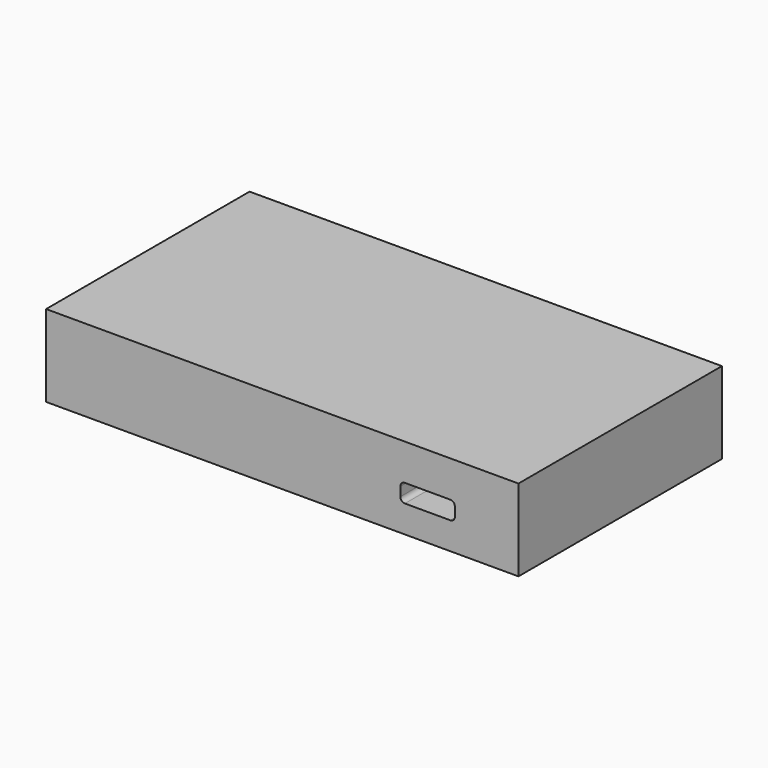
from build123d import *

# Parameters (mm, degrees)
BOX003_W     = 6
BOX003_H     = 6
BOX003_DEPTH = 2
FILLET002_R  = 0.5
BOX_W        = 52
BOX_H        = 28
BOX_DEPTH    = 9


with BuildPart() as fillet002:
    # Box003 → Box003 (new body)
    with BuildSketch(Plane(origin=(13, -17, -6), x_dir=(1, 0, 0), z_dir=(0, 0, 1))):
        with Locations((3, 3)):
            Rectangle(BOX003_W, BOX003_H)
    extrude(amount=BOX003_DEPTH)

    # Fillet002
    fillet002_edges = [fillet002.edges().sort_by_distance(p)[0] for p in [
        (13, -14, -4),
        (13, -14, -6),
        (19, -14, -4),
        (19, -14, -6),
    ]]
    fillet(fillet002_edges, radius=FILLET002_R)


with BuildPart() as obj1:
    # Box → Box (new body)
    with BuildSketch(Plane(origin=(-26, -14, -9), x_dir=(1, 0, 0), z_dir=(0, 0, 1))):
        with Locations((26, 14)):
            Rectangle(BOX_W, BOX_H)
    extrude(amount=BOX_DEPTH)

    # Cut: cut Fillet002
    add(fillet002.part, mode=Mode.SUBTRACT)


solid = obj1.part
